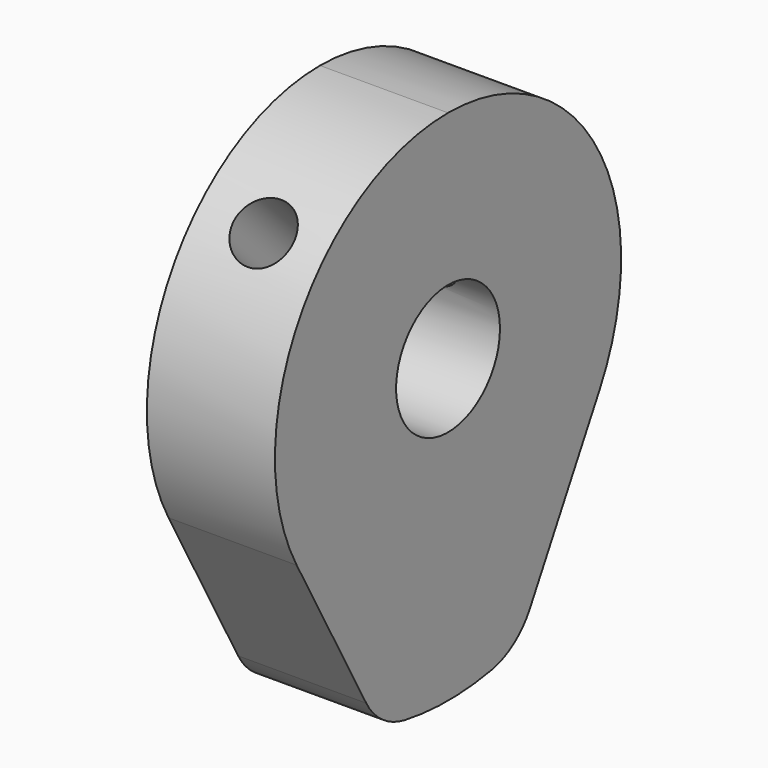
from build123d import *

# Parameters (mm, degrees)
F0_R     = 2.38125
F1_DEPTH = 4.699
F3_R     = 1.0922
F4_DEPTH = 7.62
F6_R     = 1.0922
F7_DEPTH = 7.62


with BuildPart() as f1:
    # F0 (on Right) → F1 (new body)
    with BuildSketch(Plane.YZ):
        with BuildLine():
            ThreePointArc((-3.753217, -9.601424), (-3.013341, -10.433085), (-1.988901, -10.868518))
            ThreePointArc((-1.988901, -10.868518), (0, -11.049), (1.988901, -10.868518))
            ThreePointArc((1.988901, -10.868518), (3.013341, -10.433085), (3.753217, -9.601424))
            Line((3.753217, -9.601424), (6.942294, -3.848176))
            ThreePointArc((6.942294, -3.848176), (6.839181, 4.028586), (0, 7.9375))
            ThreePointArc((0, 7.9375), (-6.839181, 4.028586), (-6.942294, -3.848176))
            Line((-6.942294, -3.848176), (-3.753217, -9.601424))
        make_face()
        Circle(F0_R, mode=Mode.SUBTRACT)
    extrude(amount=-F1_DEPTH)

    # F3 (on face) → F4 (cut)
    with BuildSketch(Plane(origin=(0, -5.61266, 5.61266), x_dir=(1, 0, 0), z_dir=(0, -0.707107, 0.707107))):
        with Locations((-2.286, 0)):
            Circle(F3_R)
    extrude(amount=-F4_DEPTH, mode=Mode.SUBTRACT)

    # F6 (on face) → F7 (cut)
    with BuildSketch(Plane(origin=(0, 5.61266, 5.61266), x_dir=(1, 0, 0), z_dir=(0, 0.707107, 0.707107))):
        with Locations((-2.286, 0)):
            Circle(F6_R)
    extrude(amount=-F7_DEPTH, mode=Mode.SUBTRACT)


solid = f1.part
